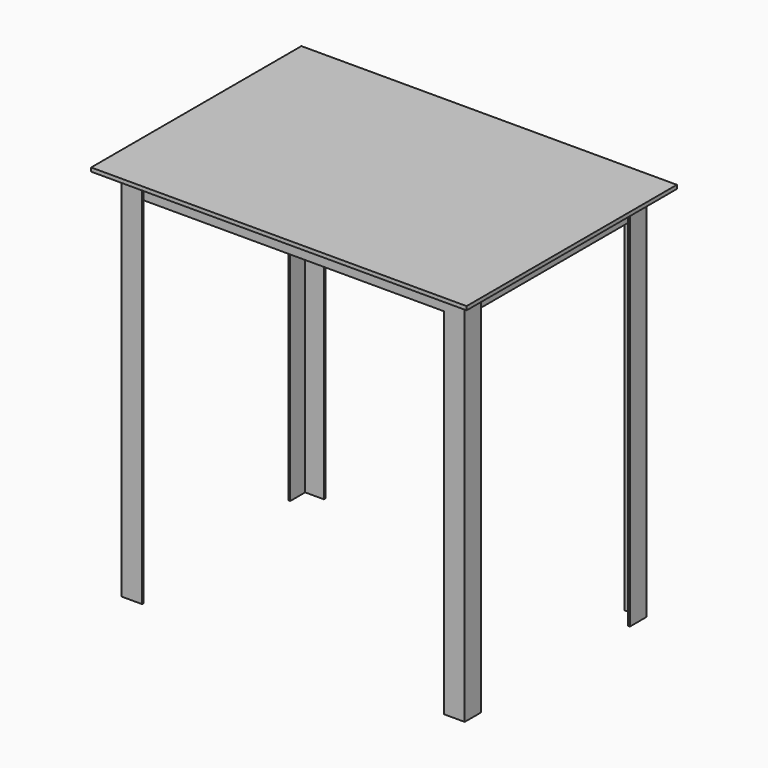
from build123d import *

# Parameters (mm, degrees)
F0_W     = 1000
F0_H     = 700
F1_DEPTH = 10
F2_W     = 900
F2_H     = 600
F2_W_2   = 800
F2_H_2   = 500
F3_DEPTH = 5
F4_W     = 900
F4_H     = 600
F4_W_2   = 890
F4_H_2   = 590
F5_DEPTH = 50
F7_DEPTH = 1000


with BuildPart() as f1:
    # F0 (on Top) → F1 (new body)
    with BuildSketch(Plane.XY):
        with Locations((440.967437, 309.230214)):
            Rectangle(F0_W, F0_H)
    extrude(amount=-F1_DEPTH)

    # F2 (on face) → F3 (join)
    with BuildSketch(Plane(origin=(0, 0, -10), x_dir=(1, 0, 0), z_dir=(0, 0, -1))):
        with Locations((440.967437, -309.230214)):
            Rectangle(F2_W, F2_H)
        with Locations((440.967437, -309.230214)):
            Rectangle(F2_W_2, F2_H_2, mode=Mode.SUBTRACT)
    extrude(amount=F3_DEPTH)

    # F4 (on face) → F5 (join)
    with BuildSketch(Plane(origin=(0, 0, -15), x_dir=(1, 0, 0), z_dir=(0, 0, -1))):
        with Locations((440.967437, -309.230214)):
            Rectangle(F4_W, F4_H)
        with Locations((440.967437, -309.230214)):
            Rectangle(F4_W_2, F4_H_2, mode=Mode.SUBTRACT)
    extrude(amount=F5_DEPTH)

    # F6 (on face) → F7 (join)
    with BuildSketch(Plane(origin=(0, 0, -10), x_dir=(1, 0, 0), z_dir=(0, 0, -1))):
        Polygon((-9.032563, -59.230214), (-9.032563, -9.230214), (40.967437, -9.230214), (40.967437, -4.230214), (-14.032563, -4.230214), (-14.032563, -59.230214), align=None)
        Polygon((40.967437, -609.230214), (-9.032563, -609.230214), (-9.032563, -559.230214), (-14.032563, -559.230214), (-14.032563, -614.230214), (40.967437, -614.230214), align=None)
        Polygon((840.967437, -14.230214), (890.967437, -14.230214), (890.967437, -64.230214), (895.967437, -64.230214), (895.967437, -9.230214), (840.967437, -9.230214), align=None)
        Polygon((890.967437, -559.230214), (890.967437, -609.230214), (840.967437, -609.230214), (840.967437, -614.230214), (895.967437, -614.230214), (895.967437, -559.230214), align=None)
    extrude(amount=F7_DEPTH)


solid = f1.part
